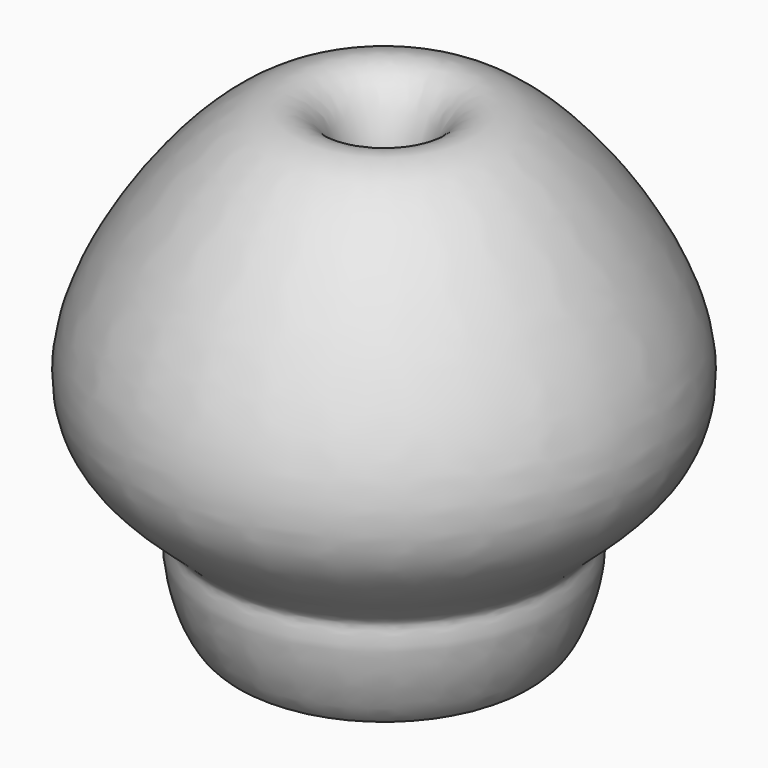
from build123d import *


with BuildPart() as f2:
    # F1 (on Right) → F2 (revolve)
    with BuildSketch(Plane.YZ):
        with BuildLine():
            add(Edge.make_bspline(
                [(45.1088994741, -33.8686443865), (45.0998229125, -30.8705591731), (42.1470932676, -27.7975771727), (71.177662885, -9.6581051836), (67.2670465848, 29.9858598697), (17.8522071528, 85.7412465082), (0.1789314866, 34.668353766), (32.3533716369, 8.9628942666), (10.746897963, -18.5989230955), (36.2498479969, -73.6341021008), (45.1277027605, -40.0795706386), (45.1088994741, -33.8686443865)],
                knots=[0, 0, 0, 0, 0.0481558711, 0.1524422675, 0.2795181297, 0.4308132481, 0.5439775672, 0.662188233, 0.775514105, 0.9002388049, 1, 1, 1, 1], degree=3))
        make_face()
    revolve(axis=Axis((-2.2184706759, 0, 0), (0, 0, 1)))


solid = f2.part
